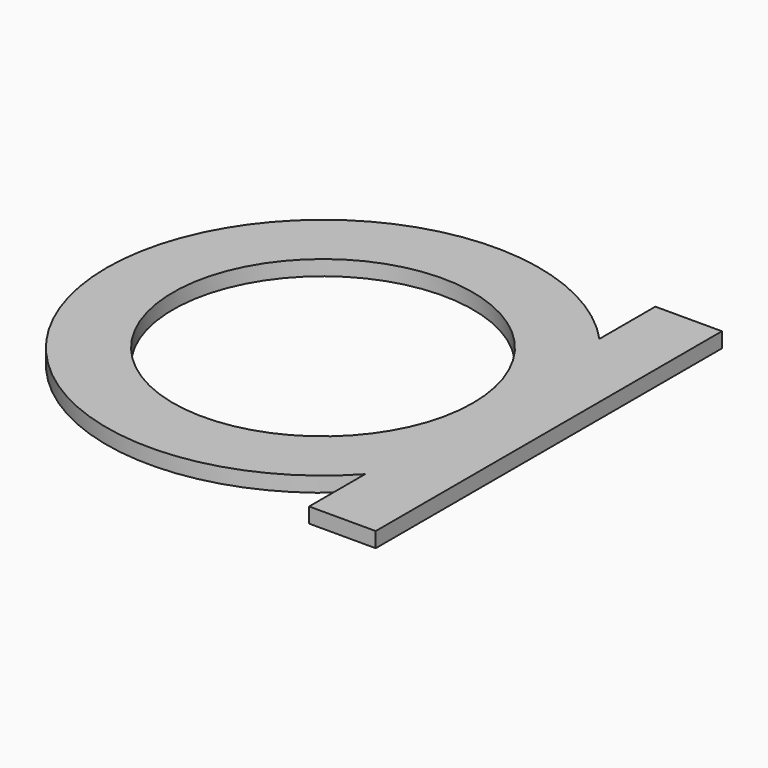
from build123d import *

# Parameters (mm, degrees)
F0_R     = 2.474548
F1_DEPTH = 0.25
F2_DEPTH = 0.25
F3_R     = 2.476563
F4_DEPTH = 0.25


with BuildPart() as f1:
    # F0 (on Top) → F1 (new body)
    with BuildSketch(Plane.XY):
        with BuildLine():
            Line((8.609738, -2.39951), (8.609738, 2.438852))
            ThreePointArc((8.609738, 2.438852), (2.404608, 0.019671), (8.609738, -2.39951))
        make_face()
        with Locations((5.978753, 0.019671)):
            Circle(F0_R, mode=Mode.SUBTRACT)
        with Locations((5.978753, 0.019671)):
            Circle(F0_R)
        with BuildLine():
            ThreePointArc((8.609738, -2.39951), (9.308771, -1.278596), (9.552899, 0.019671))
            ThreePointArc((9.552899, 0.019671), (9.308771, 1.317938), (8.609738, 2.438852))
            Line((8.609738, 2.438852), (8.609738, -2.39951))
        make_face()
    extrude(amount=F1_DEPTH)

    # F0 (on Top) → F2 (join)
    with BuildSketch(Plane.XY):
        with BuildLine():
            ThreePointArc((8.609738, 2.438852), (9.308771, 1.317938), (9.552899, 0.019671))
            ThreePointArc((9.552899, 0.019671), (9.308771, -1.278596), (8.609738, -2.39951))
            Line((8.609738, -2.39951), (8.609738, -3.555269))
            Line((8.609738, -3.555269), (9.709738, -3.555269))
            Line((9.709738, -3.555269), (9.709738, 3.593735))
            Line((9.709738, 3.593735), (8.609738, 3.593735))
            Line((8.609738, 3.593735), (8.609738, 2.438852))
        make_face()
    extrude(amount=F2_DEPTH)

    # F3 (on face) → F4 (cut)
    with BuildSketch(Plane.XY.offset(0.25)):
        with Locations((5.978753, 0.019671)):
            Circle(F3_R)
    extrude(amount=-F4_DEPTH, mode=Mode.SUBTRACT)


solid = f1.part
